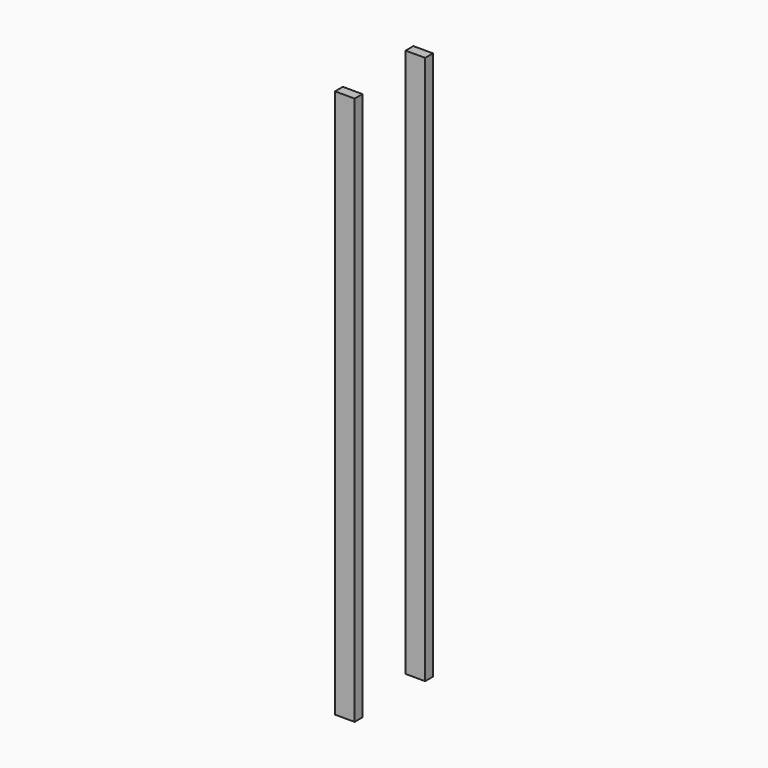
from build123d import *

# Parameters (mm, degrees)
F0_W     = 50
F0_H     = 25
F1_DEPTH = 1400


with BuildPart() as f1:
    # F0 (on Top) → F1 (new body)
    with BuildSketch(Plane.XY):
        with Locations((-6.109091, 4.698822)):
            Rectangle(F0_W, F0_H)
        with Locations((-6.109091, -220.301178)):
            Rectangle(F0_W, F0_H)
    extrude(amount=-F1_DEPTH)


solid = f1.part
